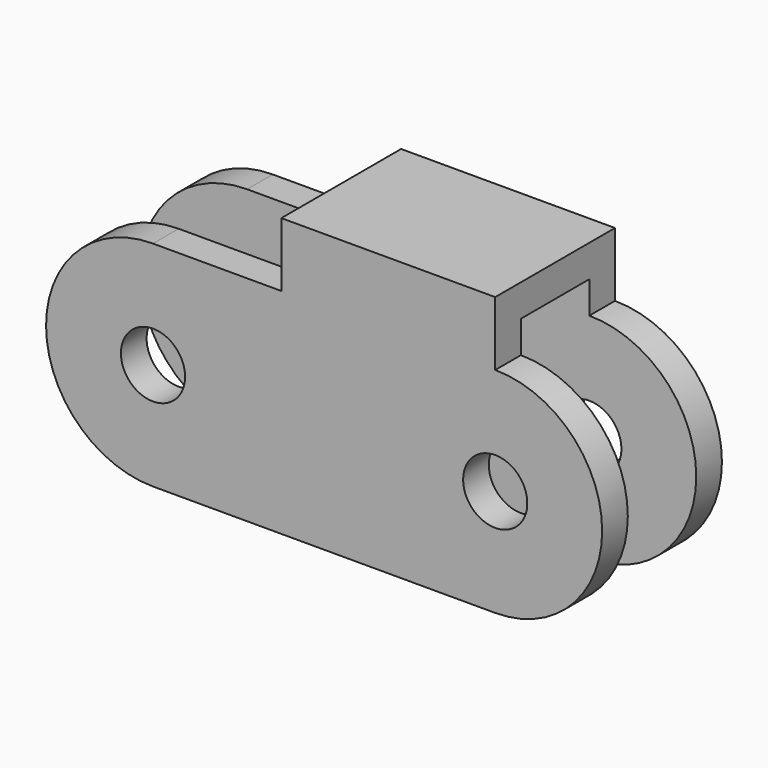
from build123d import *

# Parameters (mm, degrees)
F0_R     = 3
F0_W     = 20
F0_H     = 6
F1_DEPTH = 7
F2_W     = 8
F2_H     = 26
F3_DEPTH = 50.12601


with BuildPart() as f1:
    # F0 (on Front) → F1 (new body, symmetric)
    with BuildSketch(Plane.XZ):
        with BuildLine():
            ThreePointArc((3, 0), (0, 3), (-3, 0))
            ThreePointArc((-3, 0), (0, -3), (3, 0))
        make_face()
        with Locations((-32, 0)):
            Circle(F0_R)
        with BuildLine():
            ThreePointArc((-32, 10), (-42, 0), (-32, -10))
            Line((-32, -10), (0, -10))
            ThreePointArc((0, -10), (10, 0), (0, 10))
            Line((0, 10), (-20, 10))
            Line((-20, 10), (-32, 10))
        make_face()
        with Locations((-32, 0)):
            Circle(F0_R, mode=Mode.SUBTRACT)
        with BuildLine():
            ThreePointArc((3, 0), (0, -3), (-3, 0))
            ThreePointArc((-3, 0), (0, 3), (3, 0))
        make_face(mode=Mode.SUBTRACT)
        with Locations((-10, 13)):
            Rectangle(F0_W, F0_H)
    extrude(amount=F1_DEPTH, both=True)

    # F2 (on Right) → F3 (cut, symmetric)
    with BuildSketch(Plane.YZ):
        Rectangle(F2_W, F2_H)
    extrude(amount=F3_DEPTH, both=True, mode=Mode.SUBTRACT)


solid = f1.part
